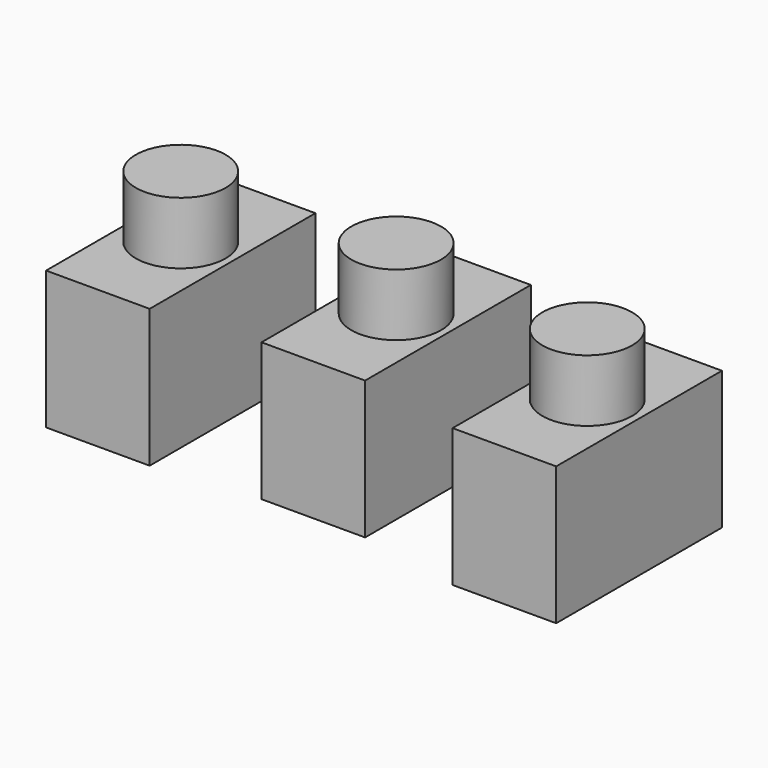
from build123d import *

# Parameters (mm, degrees)
F0_R     = 6.5
F1_DEPTH = 4.5
F2_DEPTH = 4.5
F3_W     = 15
F3_H     = 30
F3_R     = 6.5
F4_W     = 15
F4_H     = 30
F4_R     = 6.5
F5_W     = 15
F5_H     = 30
F6_DEPTH = 20


with BuildPart() as f1:
    # F0 (on Top) → F1 (new body)
    with BuildSketch(Plane.XY):
        with Locations((-285, -26.403591)):
            Circle(F0_R)
        with Locations((-255, -24.90591)):
            Circle(F0_R)
        with Locations((-225, -27.815034)):
            Circle(F0_R)
    extrude(amount=F1_DEPTH)

    # F0 (on Top) → F2 (join)
    with BuildSketch(Plane.XY):
        with Locations((-225, -27.815034)):
            Circle(F0_R)
        with Locations((-255, -24.90591)):
            Circle(F0_R)
        with Locations((-285, -26.403591)):
            Circle(F0_R)
    extrude(amount=-F2_DEPTH)

    # F3 (on face) + F4 (on face) + F5 (on face) → F6 (join)
    with BuildSketch(Plane(origin=(0, 0, -4.5), x_dir=(1, 0, 0), z_dir=(0, 0, -1))):
        with Locations((-285, 26.403591)):
            Rectangle(F3_W, F3_H)
        with Locations((-285, 26.403591)):
            Circle(F3_R)
    with BuildSketch(Plane(origin=(0, 0, -4.5), x_dir=(1, 0, 0), z_dir=(0, 0, -1))):
        with Locations((-255, 24.90591)):
            Rectangle(F4_W, F4_H)
        with Locations((-255, 24.90591)):
            Circle(F4_R)
    with BuildSketch(Plane(origin=(0, 0, -4.5), x_dir=(1, 0, 0), z_dir=(0, 0, -1))):
        with Locations((-225, 27.815034)):
            Rectangle(F5_W, F5_H)
    extrude(amount=F6_DEPTH)


solid = f1.part
